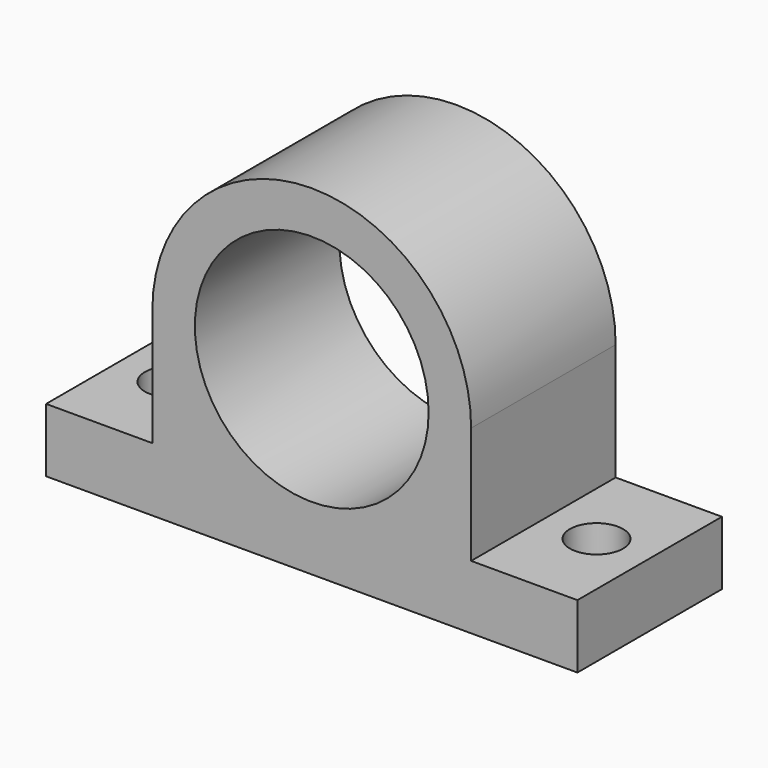
from build123d import *

# Parameters (mm, degrees)
F0_R     = 11
F1_DEPTH = 17
F2_R     = 2.5
F3_DEPTH = 6.001


with BuildPart() as f1:
    # F0 (on Front) → F1 (new body)
    with BuildSketch(Plane.XZ):
        with BuildLine():
            ThreePointArc((-15, 0), (0, -15), (15, 0))
            ThreePointArc((15, 0), (0, 15), (-15, 0))
        make_face()
        Circle(F0_R, mode=Mode.SUBTRACT)
        with BuildLine():
            Line((15, -11), (15, 0))
            ThreePointArc((15, 0), (0, -15), (-15, 0))
            Line((-15, 0), (-15, -11))
            Line((-15, -11), (-25, -11))
            Line((-25, -11), (-25, -17))
            Line((-25, -17), (25, -17))
            Line((25, -17), (25, -11))
            Line((25, -11), (15, -11))
        make_face()
    extrude(amount=F1_DEPTH)

    # F2 (on face) → F3 (cut, through all)
    with BuildSketch(Plane.XY.offset(-11)):
        with Locations((-20, -8.5)):
            Circle(F2_R)
        with Locations((20, -8.5)):
            Circle(F2_R)
    extrude(amount=-F3_DEPTH, mode=Mode.SUBTRACT)


solid = f1.part
